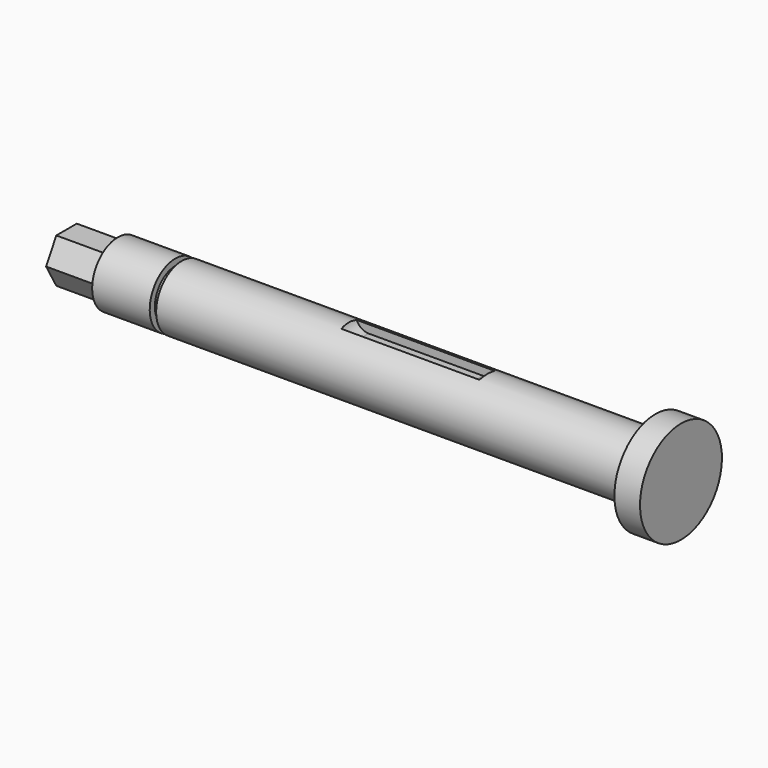
from build123d import *

# Parameters (mm, degrees)
F3_DEPTH      = 2.38125
F3_DEPTH_BACK = 2.38125
F5_DEPTH      = 12.7


with BuildPart() as f1:
    # F0 (on Front) → F1 (revolve)
    with BuildSketch(Plane.XZ):
        Polygon((12.7, 6.35), (0, 6.35), (0, 0), (152.4, 0), (152.4, 12.7), (146.05, 12.7), (146.05, 7.9375), (28.575, 7.9375), (28.575, 6.3373), (26.9748, 6.3373), (26.9748, 7.9375), (12.7, 7.9375), align=None)
    revolve(axis=Axis((76.2, 0, 0), (1, 0, 0)))

    # F2 (on Front) → F3 (cut, two sides)
    with BuildSketch(Plane.XZ) as f3_sk:
        with BuildLine():
            Line((104.5209977589, 15.0908644997), (69.8499977589, 15.0908644997))
            Line((69.8499977589, 15.0908644997), (69.8499977589, 8.7408644997))
            ThreePointArc((69.8499977589, 8.7408644997), (70.7799337286, 6.4958004694), (73.0249977589, 5.5658644997))
            Line((73.0249977589, 5.5658644997), (101.3459977589, 5.5658644997))
            ThreePointArc((101.3459977589, 5.5658644997), (103.5910617891, 6.4958004694), (104.5209977589, 8.7408644997))
            Line((104.5209977589, 8.7408644997), (104.5209977589, 15.0908644997))
        make_face()
    extrude(amount=-F3_DEPTH, mode=Mode.SUBTRACT)
    extrude(f3_sk.sketch, amount=F3_DEPTH_BACK, mode=Mode.SUBTRACT)

    # F4 (on face) → F5 (cut, through all)
    with BuildSketch(Plane(origin=(0, 0, 0), x_dir=(0, -1, 0), z_dir=(-1, 0, 0))):
        with BuildLine():
            Line((-6.35, 0), (-3.175, 5.499261314))
            ThreePointArc((-3.175, 5.499261314), (-5.499261314, 3.175), (-6.35, 0))
        make_face()
        with BuildLine():
            ThreePointArc((3.175, 5.499261314), (0, 6.35), (-3.175, 5.499261314))
            Line((-3.175, 5.499261314), (3.175, 5.499261314))
        make_face()
        with BuildLine():
            ThreePointArc((6.35, 0), (5.499261314, 3.175), (3.175, 5.499261314))
            Line((3.175, 5.499261314), (6.35, 0))
        make_face()
        with BuildLine():
            ThreePointArc((3.175, -5.499261314), (5.499261314, -3.175), (6.35, 0))
            Line((6.35, 0), (3.175, -5.499261314))
        make_face()
        with BuildLine():
            Line((3.175, -5.499261314), (-3.175, -5.499261314))
            ThreePointArc((-3.175, -5.499261314), (0, -6.35), (3.175, -5.499261314))
        make_face()
        with BuildLine():
            Line((-3.175, -5.499261314), (-6.35, 0))
            ThreePointArc((-6.35, 0), (-5.499261314, -3.175), (-3.175, -5.499261314))
        make_face()
    extrude(amount=-F5_DEPTH, mode=Mode.SUBTRACT)


solid = f1.part
